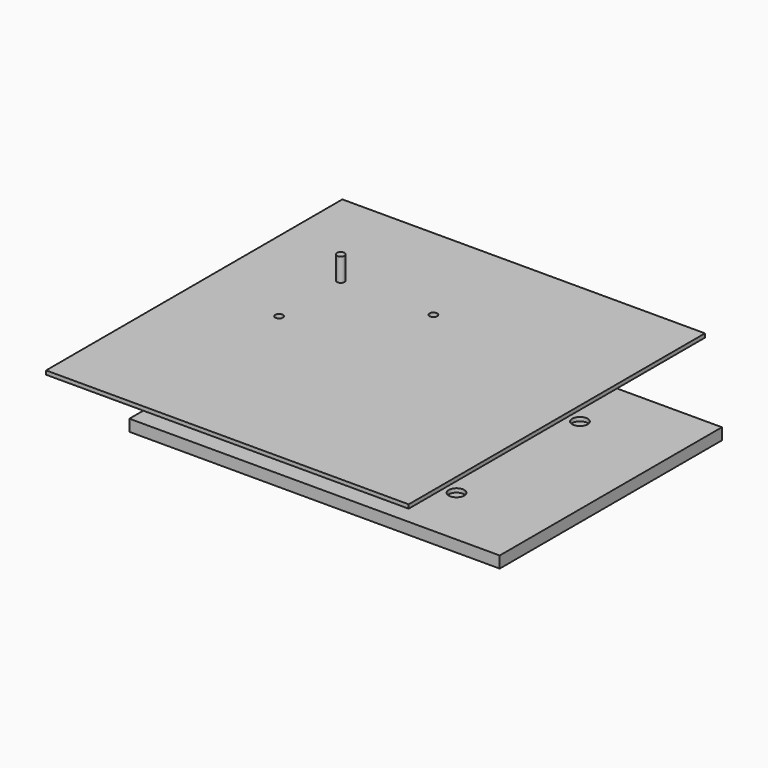
from build123d import *

# Parameters (mm, degrees)
F0_W      = 304.8
F0_H      = 228.6
F1_DEPTH  = 9.525
F2_R      = 6.35
F3_DEPTH  = 25.4
F4_DEPTH  = 3.175
F5_R      = 6.35
F6_DEPTH  = 3.175
F8_DEPTH  = 9.525
F9_R      = 3.175
F10_DEPTH = 3.175
F11_DEPTH = 25.4
F12_W     = 260.35
F12_H     = 228.6
F12_R     = 3.175
F12_W_2   = 63.5
F12_H_2   = 22.225
F12_R_2   = 6.35
F13_DEPTH = 3.175


with BuildPart() as f1:
    # F0 (on Top) → F1 (new body)
    with BuildSketch(Plane.XY):
        Rectangle(F0_W, F0_H)
    extrude(amount=F1_DEPTH)

    # F2 (on face) → F4 (cut)
    with BuildSketch(Plane.XY.offset(9.525)):
        with Locations((-76.2, 63.5)):
            Circle(F2_R)
        with Locations((-76.2, -63.5)):
            Circle(F2_R)
        with Locations((76.2, 63.5)):
            Circle(F2_R)
        with Locations((76.2, -63.5)):
            Circle(F2_R)
    extrude(amount=-F4_DEPTH, mode=Mode.SUBTRACT)

    # F5 (on face) → F6 (cut)
    with BuildSketch(Plane.XY.offset(9.525)):
        with Locations((-76.2, 0)):
            Circle(F5_R)
        with Locations((0, 63.5)):
            Circle(F5_R)
    extrude(amount=-F6_DEPTH, mode=Mode.SUBTRACT)


with BuildPart() as f3:
    # F2 (on face) → F3 (new body)
    with BuildSketch(Plane.XY.offset(9.525)):
        with Locations((-76.2, 63.5)):
            Circle(F2_R)
    extrude(amount=F3_DEPTH)


with BuildPart() as f8:
    # F7 (on face) → F8 (new body)
    with BuildSketch(Plane.XY.offset(34.925)):
        with BuildLine():
            ThreePointArc((-76.2, 69.85), (-71.7098719395, 67.9901280605), (-69.85, 63.5))
            ThreePointArc((-69.85, 63.5), (-71.7098719395, 59.0098719395), (-76.2, 57.15))
            Line((-76.2, 57.15), (-76.2, 52.3875))
            Line((-76.2, 52.3875), (-66.675, 52.3875))
            Line((-66.675, 52.3875), (-66.675, 74.6125))
            Line((-66.675, 74.6125), (-76.2, 74.6125))
            Line((-76.2, 74.6125), (-76.2, 69.85))
        make_face()
        with BuildLine():
            ThreePointArc((-76.2, 57.15), (-82.55, 63.5), (-76.2, 69.85))
            Line((-76.2, 69.85), (-76.2, 74.6125))
            Line((-76.2, 74.6125), (-130.175, 74.6125))
            Line((-130.175, 74.6125), (-130.175, 52.3875))
            Line((-130.175, 52.3875), (-76.2, 52.3875))
            Line((-76.2, 52.3875), (-76.2, 57.15))
        make_face()
    extrude(amount=F8_DEPTH)

    # F9 (on face) → F10 (cut)
    with BuildSketch(Plane.XY.offset(44.45)):
        with Locations((-120.65, 63.5)):
            Circle(F9_R)
    extrude(amount=-F10_DEPTH, mode=Mode.SUBTRACT)

    # F11 (add): a face of the model
    f11_faces = [f8.faces().sort_by_distance(p)[0] for p in [
        (-120.65, 63.5, 41.275),
    ]]
    extrude(f11_faces, amount=F11_DEPTH)


with BuildPart() as f13:
    # F12 (on face) → F13 (new body)
    with BuildSketch(Plane.XY.offset(44.45)):
        with Locations((-22.225, 0)):
            Rectangle(F12_W, F12_H)
        with Locations((-120.65, 0)):
            Circle(F12_R, mode=Mode.SUBTRACT)
        with Locations((-98.425, 63.5)):
            Rectangle(F12_W_2, F12_H_2, mode=Mode.SUBTRACT)
        with Locations((-76.2, 0)):
            Circle(F12_R_2, mode=Mode.SUBTRACT)
        with Locations((-44.45, 63.5)):
            Circle(F12_R, mode=Mode.SUBTRACT)
        with Locations((0, 63.5)):
            Circle(F12_R_2, mode=Mode.SUBTRACT)
        Polygon((107.95, -152.4), (107.95, -114.3), (-152.4, -114.3), (-152.4, 114.3), (107.95, 114.3), (107.95, 152.4), (-190.5, 152.4), (-190.5, -152.4), align=None)
        with Locations((-98.425, 63.5)):
            Rectangle(F12_W_2, F12_H_2)
        with Locations((-120.65, 63.5)):
            Circle(F12_R, mode=Mode.SUBTRACT)
        with Locations((-76.2, 63.5)):
            Circle(F12_R_2, mode=Mode.SUBTRACT)
        with Locations((-76.2, 63.5)):
            Circle(F12_R_2)
        with Locations((0, 63.5)):
            Circle(F12_R_2)
        with Locations((-76.2, 0)):
            Circle(F12_R_2)
        with Locations((-120.65, 63.5)):
            Circle(F12_R)
    extrude(amount=F13_DEPTH)


solid = Compound([f1.part, f3.part, f8.part, f13.part])
